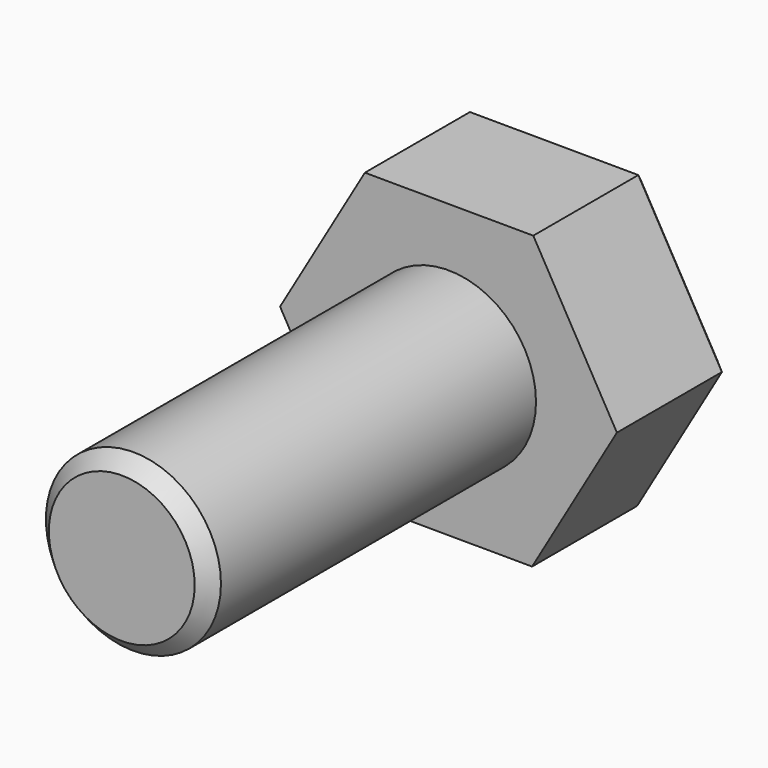
from build123d import *

# Parameters (mm, degrees)
F1_DEPTH = 10
F2_R     = 6
F3_DEPTH = 28
F4_SIZE  = 1


with BuildPart() as f1:
    # F0 (on Front) → F1 (new body)
    with BuildSketch(Plane.XZ):
        Polygon((5.731821, -10.023949), (11.546905, -0.048072), (5.815084, 9.975877), (-5.731821, 10.023949), (-11.546905, 0.048072), (-5.815084, -9.975877), align=None)
    extrude(amount=F1_DEPTH)

    # F2 (on face) → F3 (join)
    with BuildSketch(Plane.XZ.offset(10)):
        Circle(F2_R)
    extrude(amount=F3_DEPTH)

    # F4
    f4_edges = [f1.edges().sort_by_distance(p)[0] for p in [
        (-8.639363, 0, 5.036011),
        (0.041632, 0, 9.999913),
        (8.680995, 0, 4.963902),
        (8.639363, 0, -5.036011),
        (-0.041632, 0, -9.999913),
        (-8.680995, 0, -4.963902),
        (-6, -38, 0),
    ]]
    chamfer(f4_edges, length=F4_SIZE)


solid = f1.part
